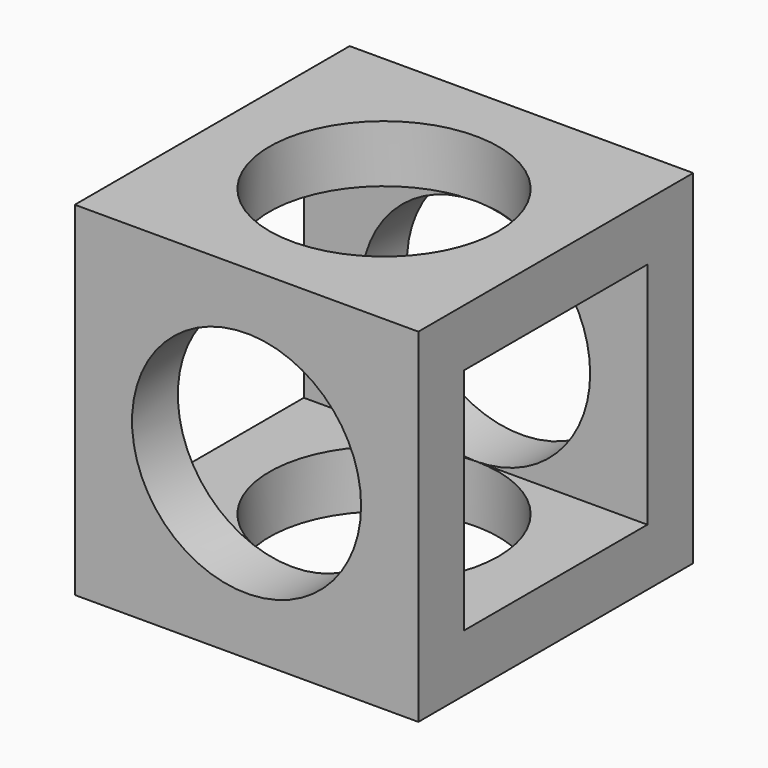
from build123d import *

# Parameters (mm, degrees)
F0_W     = 30
F0_H     = 30
F1_DEPTH = 15
F2_R     = 10
F3_DEPTH = 30
F4_R     = 10
F5_DEPTH = 30
F6_W     = 20
F6_H     = 20
F7_DEPTH = 30


with BuildPart() as f1:
    # F0 (on Front) → F1 (new body, symmetric)
    with BuildSketch(Plane.XZ):
        Rectangle(F0_W, F0_H)
    extrude(amount=F1_DEPTH, both=True)

    # F2 (on face) → F3 (cut)
    with BuildSketch(Plane.XY.offset(15)):
        Circle(F2_R)
    extrude(amount=-F3_DEPTH, mode=Mode.SUBTRACT)

    # F4 (on face) → F5 (cut)
    with BuildSketch(Plane.XZ.offset(15)):
        Circle(F4_R)
    extrude(amount=-F5_DEPTH, mode=Mode.SUBTRACT)

    # F6 (on face) → F7 (cut)
    with BuildSketch(Plane.YZ.offset(15)):
        Rectangle(F6_W, F6_H)
    extrude(amount=-F7_DEPTH, mode=Mode.SUBTRACT)


solid = f1.part
